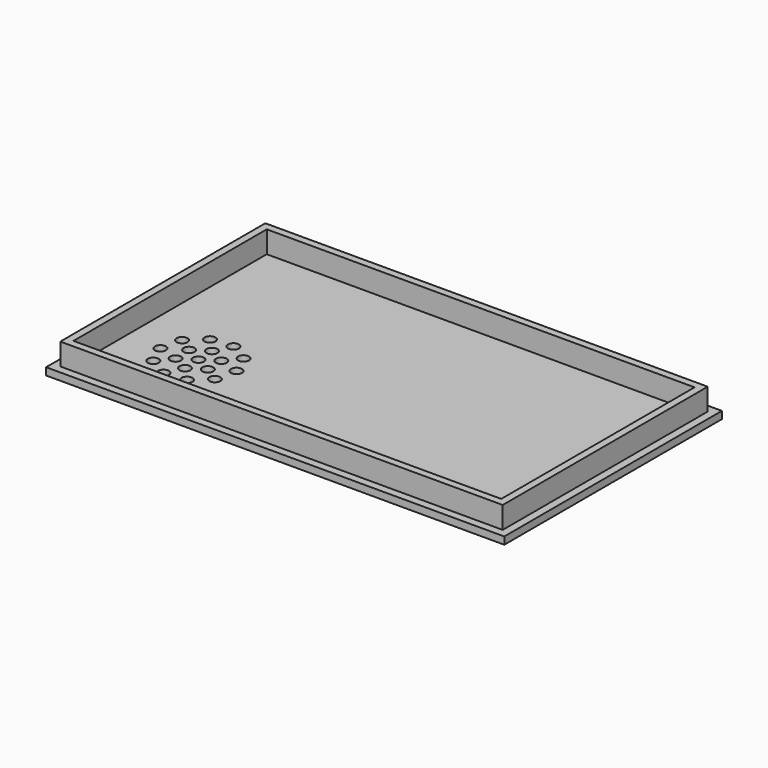
from build123d import *

# Parameters (mm, degrees)
F0_W     = 125.33
F0_H     = 74.41
F1_DEPTH = 2
F2_W     = 121.01
F2_H     = 70.09
F2_W_2   = 117.01
F2_H_2   = 66.09
F3_DEPTH = 6
F4_R     = 1.5
F5_DEPTH = 8.001


with BuildPart() as f1:
    # F0 (on Top) → F1 (new body)
    with BuildSketch(Plane.XY):
        Rectangle(F0_W, F0_H)
    extrude(amount=F1_DEPTH)

    # F2 (on face) → F3 (join)
    with BuildSketch(Plane.XY.offset(2)):
        Rectangle(F2_W, F2_H)
        Rectangle(F2_W_2, F2_H_2, mode=Mode.SUBTRACT)
    extrude(amount=F3_DEPTH)

    # F4 (on face) → F5 (cut, through all)
    with BuildSketch(Plane(origin=(0, 0, 0), x_dir=(1, 0, 0), z_dir=(0, 0, -1))):
        with Locations((-39.435246, 14.143545)):
            Circle(F4_R)
        with Locations((-35.077156, 16.39686)):
            Circle(F4_R)
        with Locations((-31.077552, 18.983332)):
            Circle(F4_R)
        with Locations((-29.828973, 13.146486)):
            Circle(F4_R)
        with Locations((-32.249665, 7.690482)):
            Circle(F4_R)
        with Locations((-35.304773, 11.495986)):
            Circle(F4_R)
        with Locations((-37.415004, 4.699329)):
            Circle(F4_R)
        with Locations((-43.352007, 5.315545)):
            Circle(F4_R)
        with Locations((-39.662862, 9.242671)):
            Circle(F4_R)
        with Locations((-39.20763, 19.044419)):
            Circle(F4_R)
        with Locations((-35.518485, 22.971545)):
            Circle(F4_R)
        with Locations((-41.455488, 23.587761)):
            Circle(F4_R)
        with Locations((-46.620827, 20.596608)):
            Circle(F4_R)
        with Locations((-43.565719, 16.791103)):
            Circle(F4_R)
        with Locations((-43.793336, 11.890229)):
            Circle(F4_R)
        with Locations((-47.79294, 9.303757)):
            Circle(F4_R)
        with Locations((-49.041518, 15.140604)):
            Circle(F4_R)
    extrude(amount=-F5_DEPTH, mode=Mode.SUBTRACT)


solid = f1.part
